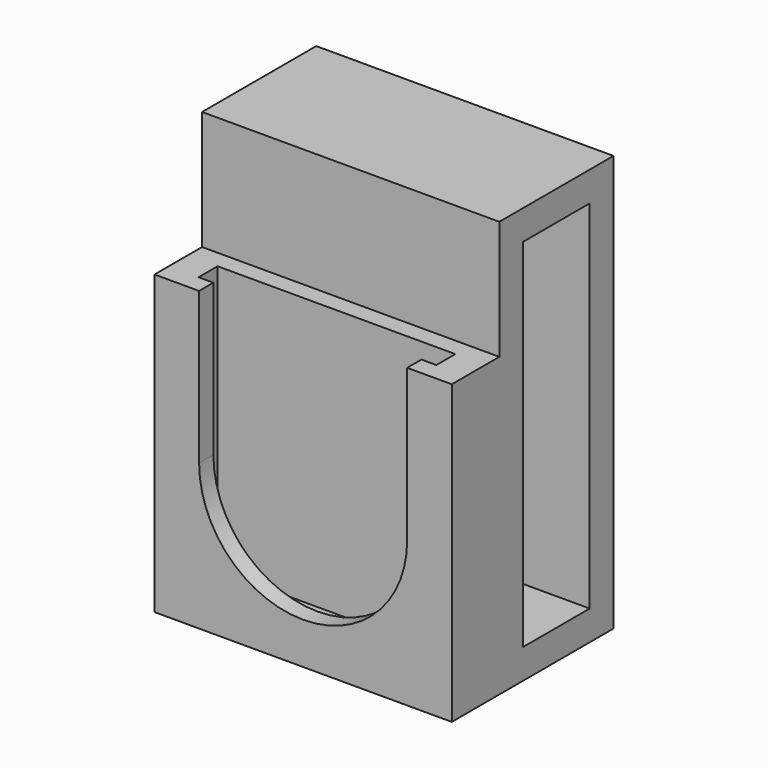
from build123d import *

# Parameters (mm, degrees)
F0_W     = 20
F0_H     = 2
F1_DEPTH = 2.5
F0_W_2   = 25
F0_H_2   = 5
F2_DEPTH = 25
F4_DEPTH = 2.5
F0_W_3   = 2.5
F0_H_3   = 7
F5_DEPTH = 35
F6_DEPTH = 32.5
F7_DEPTH = 2.5


with BuildPart() as f1:
    # F0 (on Top) → F1 (new body)
    with BuildSketch(Plane.XY):
        Rectangle(F0_W, F0_H)
    extrude(amount=F1_DEPTH)

    # F0 (on Top) → F2 (join)
    with BuildSketch(Plane.XY):
        Rectangle(F0_W_2, F0_H_2)
        Rectangle(F0_W, F0_H, mode=Mode.SUBTRACT)
    extrude(amount=F2_DEPTH)

    # F3 (on face) → F4 (cut)
    with BuildSketch(Plane.XZ.offset(2.5)):
        with BuildLine():
            ThreePointArc((-8.75, 12.25), (0, 3.5), (8.75, 12.25))
            ThreePointArc((8.75, 12.25), (0, 21), (-8.75, 12.25))
        make_face()
        with BuildLine():
            ThreePointArc((-8.75, 12.25), (0, 21), (8.75, 12.25))
            Line((8.75, 12.25), (8.75, 25))
            Line((8.75, 25), (-8.75, 25))
            Line((-8.75, 25), (-8.75, 12.25))
        make_face()
    extrude(amount=-F4_DEPTH, mode=Mode.SUBTRACT)

    # F0 (on Top) → F5 (join)
    with BuildSketch(Plane.XY):
        Polygon((10, 12), (12.5, 12), (12.5, 14.5), (-12.5, 14.5), (-12.5, 12), (-10, 12), align=None)
        with Locations((-11.25, 8.5)):
            Rectangle(F0_W_3, F0_H_3)
        with Locations((0, 8.5)):
            Rectangle(F0_W, F0_H_3)
        Polygon((-12.5, 2.5), (12.5, 2.5), (12.5, 5), (10, 5), (-10, 5), (-12.5, 5), align=None)
        with Locations((11.25, 8.5)):
            Rectangle(F0_W_3, F0_H_3)
    extrude(amount=F5_DEPTH)

    # F0 (on Top) → F6 (cut)
    with BuildSketch(Plane.XY):
        with Locations((11.25, 8.5)):
            Rectangle(F0_W_3, F0_H_3)
        with Locations((0, 8.5)):
            Rectangle(F0_W, F0_H_3)
        with Locations((-11.25, 8.5)):
            Rectangle(F0_W_3, F0_H_3)
    extrude(amount=F6_DEPTH, mode=Mode.SUBTRACT)

    # F0 (on Top) → F7 (join)
    with BuildSketch(Plane.XY):
        with Locations((11.25, 8.5)):
            Rectangle(F0_W_3, F0_H_3)
        with Locations((0, 8.5)):
            Rectangle(F0_W, F0_H_3)
        with Locations((-11.25, 8.5)):
            Rectangle(F0_W_3, F0_H_3)
        Polygon((10, 12), (12.5, 12), (12.5, 14.5), (-12.5, 14.5), (-12.5, 12), (-10, 12), align=None)
        Polygon((-12.5, 2.5), (12.5, 2.5), (12.5, 5), (10, 5), (-10, 5), (-12.5, 5), align=None)
    extrude(amount=F7_DEPTH)


solid = f1.part
